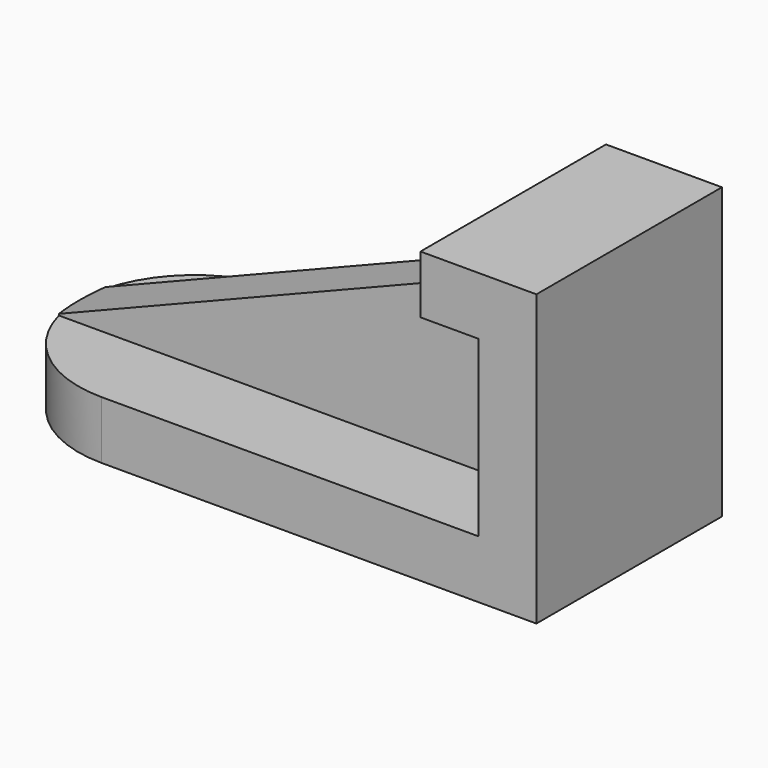
from build123d import *

# Parameters (mm, degrees)
PAD_DEPTH    = 10
SKETCH001_W  = 10
SKETCH001_H  = 40
PAD001_DEPTH = 30
SKETCH002_W  = 20
SKETCH002_H  = 40
PAD002_DEPTH = 10
PAD003_DEPTH = 30
POCKET_DEPTH = 10


with BuildPart() as part:
    # Sketch → Pad (new body)
    with BuildSketch(Plane.XY):
        with BuildLine():
            Line((37.5, -20), (37.5, 20))
            Line((37.5, 20), (-37.5, 20))
            ThreePointArc((-37.5, 20), (-57.5, 0), (-37.5, -20))
            Line((-37.5, -20), (37.5, -20))
        make_face()
    extrude(amount=PAD_DEPTH)

    # Sketch001 (on Face6 of Pad) → Pad001 (join)
    with BuildSketch(Plane.XY.offset(10)):
        with Locations((32.5, 0)):
            Rectangle(SKETCH001_W, SKETCH001_H)
    extrude(amount=PAD001_DEPTH)

    # Sketch002 (on Face5 of Pad001) → Pad002 (join)
    with BuildSketch(Plane.XY.offset(40)):
        with Locations((27.5, 0)):
            Rectangle(SKETCH002_W, SKETCH002_H)
    extrude(amount=PAD002_DEPTH)

    # Sketch003 (on Face3 of Pad002) → Pad003 (join)
    with BuildSketch(Plane.XY.offset(10)):
        with BuildLine():
            Line((-56.864917, 5), (27.5, 5))
            Line((27.5, 5), (27.5, -5))
            Line((-56.864917, -5), (27.5, -5))
            ThreePointArc((-56.864917, 5), (-57.5, 0), (-56.864917, -5))
        make_face()
    extrude(amount=PAD003_DEPTH)

    # Sketch004 (on Face15 of Pad003) → Pocket (cut)
    with BuildSketch(Plane.XZ.offset(5)):
        Polygon((-57.5, 10), (17.5, 40), (-57.5, 40), align=None)
    extrude(amount=-POCKET_DEPTH, mode=Mode.SUBTRACT)


solid = part.part
